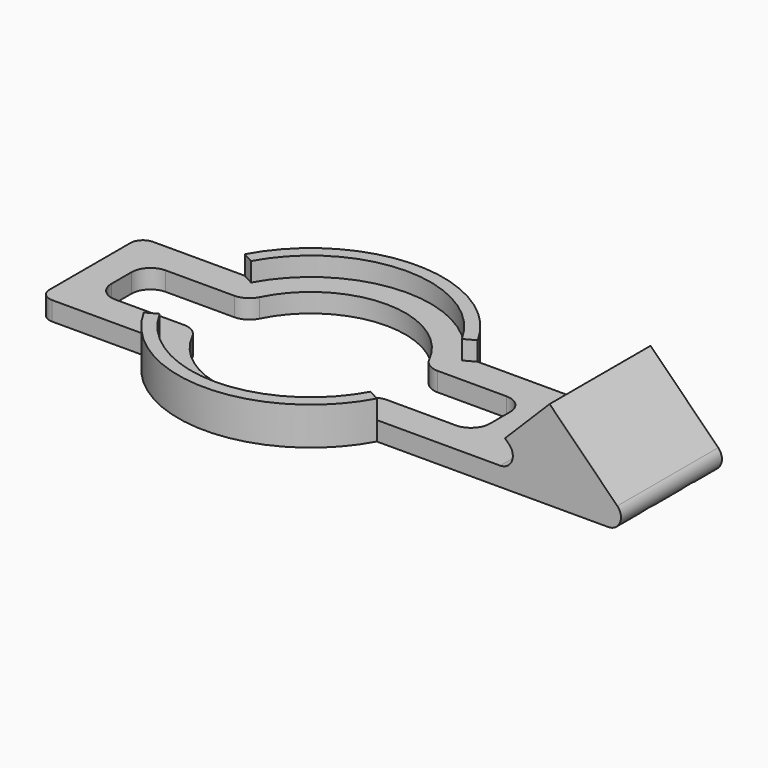
from build123d import *

# Parameters (mm, degrees)
F1_DEPTH = 10
F2_R     = 3.25
F3_DEPTH = 25
F5_DEPTH = 3
F7_DEPTH = 3


with BuildPart() as f1:
    # F0 (on Front) → F1 (new body, symmetric)
    with BuildSketch(Plane.XZ):
        with BuildLine():
            Line((0, 3), (0, 0))
            Line((0, 0), (20.171573, 0))
            ThreePointArc((20.171573, 0), (22.019332, 1.234633), (21.585786, 3.414214))
            Line((21.585786, 3.414214), (10.857864, 14.142136))
            Line((10.857864, 14.142136), (3.786797, 7.071068))
            Line((3.786797, 7.071068), (4.443651, 6.414214))
            ThreePointArc((4.443651, 6.414214), (4.877196, 4.234633), (3.029437, 3))
            Line((3.029437, 3), (0, 3))
        make_face()
    extrude(amount=F1_DEPTH, both=True)

    # F2 (on face) → F3 (cut)
    with BuildSketch(Plane(origin=(-1.642136, 0, 1.642136), x_dir=(0, -1, 0), z_dir=(-0.707107, 0, 0.707107))):
        with Locations((-4, 12.67767)):
            Circle(F2_R)
        with Locations((4, 12.67767)):
            Circle(F2_R)
    extrude(amount=-F3_DEPTH, mode=Mode.SUBTRACT)

    # F4 (on Top) → F5 (join)
    with BuildSketch(Plane.XY):
        with BuildLine():
            Line((0, -10), (0, 10))
            Line((0, 10), (-16.533815, 10))
            ThreePointArc((-16.533815, 10), (-35, 21), (-53.466185, 10))
            Line((-53.466185, 10), (-68, 10))
            ThreePointArc((-68, 10), (-69.414214, 9.414214), (-70, 8))
            Line((-70, 8), (-70, -8))
            ThreePointArc((-70, -8), (-69.414214, -9.414214), (-68, -10))
            Line((-68, -10), (-53.466185, -10))
            ThreePointArc((-53.466185, -10), (-35, -21), (-16.533815, -10))
            Line((-16.533815, -10), (0, -10))
        make_face()
        with BuildLine():
            ThreePointArc((-21.562904, -6.666667), (-35, -15), (-48.437096, -6.666667))
            ThreePointArc((-48.437096, -6.666667), (-49.543377, -5.45049), (-51.124515, -5))
            Line((-51.124515, -5), (-62, -5))
            ThreePointArc((-62, -5), (-64.12132, -4.12132), (-65, -2))
            Line((-65, -2), (-65, 2))
            ThreePointArc((-65, 2), (-64.12132, 4.12132), (-62, 5))
            Line((-62, 5), (-51.124515, 5))
            ThreePointArc((-51.124515, 5), (-49.543377, 5.45049), (-48.437096, 6.666667))
            ThreePointArc((-48.437096, 6.666667), (-35, 15), (-21.562904, 6.666667))
            ThreePointArc((-21.562904, 6.666667), (-20.456623, 5.45049), (-18.875485, 5))
            Line((-18.875485, 5), (-8, 5))
            ThreePointArc((-8, 5), (-5.87868, 4.12132), (-5, 2))
            Line((-5, 2), (-5, -2))
            ThreePointArc((-5, -2), (-5.87868, -4.12132), (-8, -5))
            Line((-8, -5), (-18.875485, -5))
            ThreePointArc((-18.875485, -5), (-20.456623, -5.45049), (-21.562904, -6.666667))
        make_face(mode=Mode.SUBTRACT)
    extrude(amount=F5_DEPTH)

    # F6 (on face) → F7 (join)
    with BuildSketch(Plane.XY.offset(3)):
        with BuildLine():
            ThreePointArc((-51.707501, 9.047619), (-35, 19), (-18.292499, 9.047619))
            Line((-18.292499, 9.047619), (-16.533815, 10))
            ThreePointArc((-16.533815, 10), (-35, 21), (-53.466185, 10))
            Line((-53.466185, 10), (-51.707501, 9.047619))
        make_face()
        with BuildLine():
            Line((-16.533815, -10), (-18.292499, -9.047619))
            ThreePointArc((-18.292499, -9.047619), (-35, -19), (-51.707501, -9.047619))
            Line((-51.707501, -9.047619), (-53.466185, -10))
            ThreePointArc((-53.466185, -10), (-35, -21), (-16.533815, -10))
        make_face()
    extrude(amount=F7_DEPTH)


solid = f1.part
